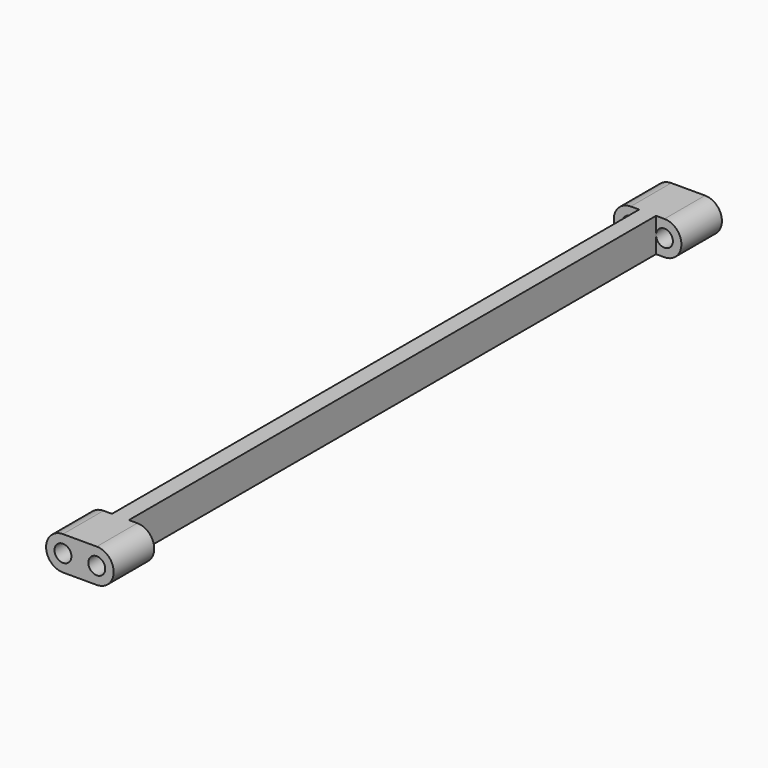
from build123d import *

# Parameters (mm, degrees)
F0_R     = 0.5
F1_DEPTH = 22.5
F2_W     = 1
F2_H     = 39
F2_W_2   = 0.5
F3_DEPTH = 25


with BuildPart() as f1:
    # F0 (on Front) → F1 (new body, symmetric)
    with BuildSketch(Plane.XZ):
        with BuildLine():
            ThreePointArc((-1, 1), (-2, 0), (-1, -1))
            Line((-1, -1), (1, -1))
            ThreePointArc((1, -1), (2, 0), (1, 1))
            Line((1, 1), (-1, 1))
        make_face()
        with Locations((-1, 0)):
            Circle(F0_R, mode=Mode.SUBTRACT)
        with Locations((1, 0)):
            Circle(F0_R, mode=Mode.SUBTRACT)
    extrude(amount=F1_DEPTH, both=True)

    # F2 (on face) → F3 (cut)
    with BuildSketch(Plane.XY.offset(1)):
        with Locations((1.5, 0)):
            Rectangle(F2_W, F2_H)
        with Locations((0.75, 0)):
            Rectangle(F2_W_2, F2_H)
        with Locations((-1.5, 0)):
            Rectangle(F2_W, F2_H)
        with Locations((-0.75, 0)):
            Rectangle(F2_W_2, F2_H)
    extrude(amount=-F3_DEPTH, mode=Mode.SUBTRACT)


solid = f1.part
